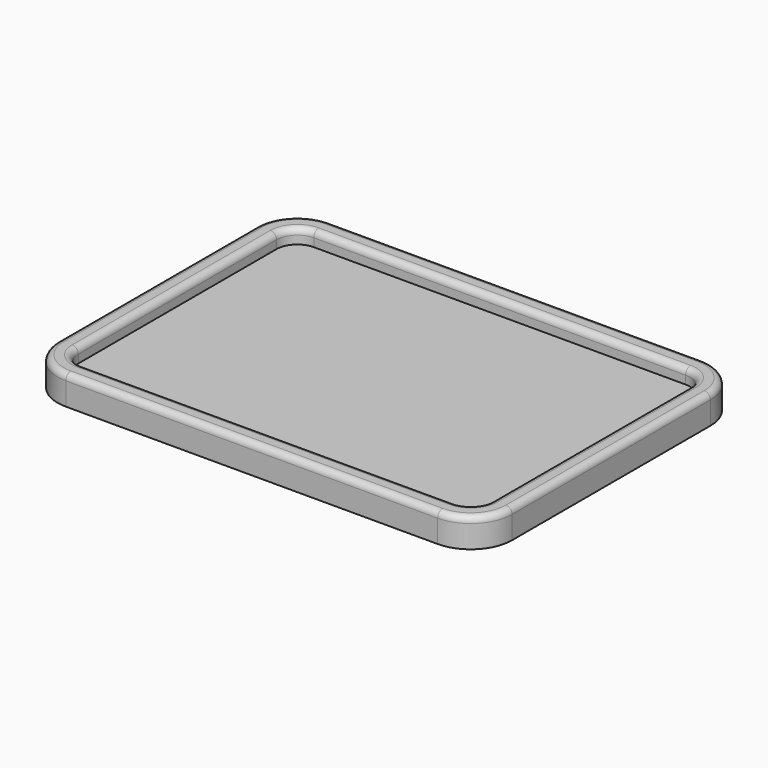
from build123d import *

# Parameters (mm, degrees)
F0_W     = 110
F0_H     = 80
F1_DEPTH = 7
F2_W     = 100.000002
F2_H     = 70.000002
F3_DEPTH = 3.5
F4_R     = 5
F5_R     = 10
F6_R     = 1.5


with BuildPart() as f1:
    # F0 (on Top) → F1 (new body)
    with BuildSketch(Plane.XY):
        Rectangle(F0_W, F0_H)
    extrude(amount=F1_DEPTH)

    # F2 (on face) → F3 (cut)
    with BuildSketch(Plane.XY.offset(7)):
        Rectangle(F2_W, F2_H)
    extrude(amount=-F3_DEPTH, mode=Mode.SUBTRACT)

    # F4
    f4_edges = [f1.edges().sort_by_distance(p)[0] for p in [
        (50.000001, -35.000001, 5.25),
        (-50.000001, -35.000001, 5.25),
        (-50.000001, 35.000001, 5.25),
        (50.000001, 35.000001, 5.25),
    ]]
    fillet(f4_edges, radius=F4_R)

    # F5
    f5_edges = [f1.edges().sort_by_distance(p)[0] for p in [
        (-55, -40, 3.5),
        (55, -40, 3.5),
        (55, 40, 3.5),
        (-55, 40, 3.5),
    ]]
    fillet(f5_edges, radius=F5_R)

    # F6
    f6_edges = [f1.edges().sort_by_distance(p)[0] for p in [
        (0, -40, 7),
        (50.000001, 0, 7),
    ]]
    fillet(f6_edges, radius=F6_R)


solid = f1.part
